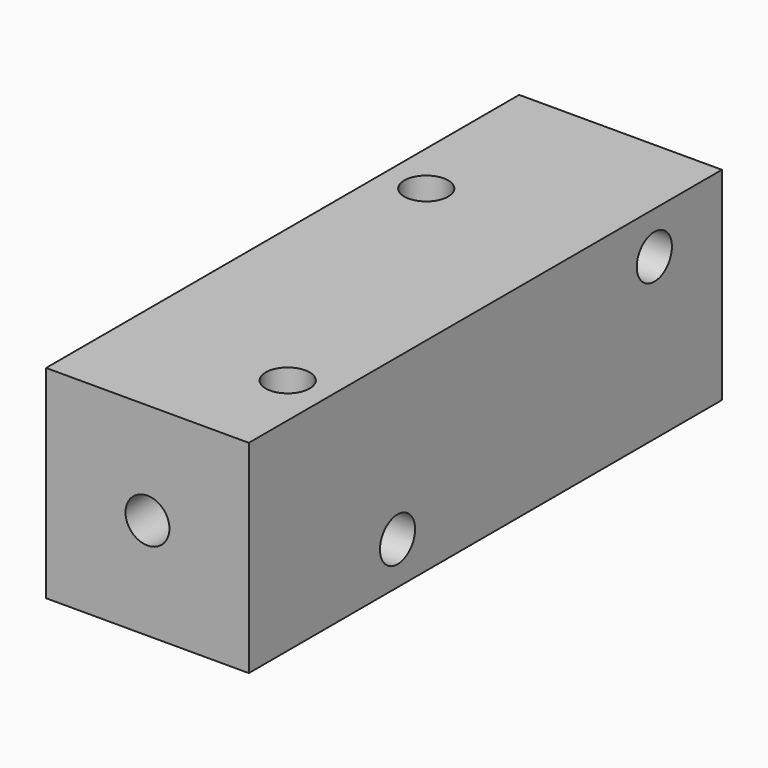
from build123d import *

# Parameters (mm, degrees)
CYLINDER024_R           = 1.3
CYLINDER024_DEPTH       = 40
CYLINDER024_PITCH_ANGLE = 90
CYLINDER023_R           = 1.3
CYLINDER023_DEPTH       = 40
CYLINDER023_PITCH_ANGLE = 90
CYLINDER022_R           = 1.3
CYLINDER022_DEPTH       = 70
CYLINDER022_ROLL_ANGLE  = 90
CYLINDER021_R           = 1.3
CYLINDER021_DEPTH       = 40
CYLINDER020_R           = 1.3
CYLINDER020_DEPTH       = 40
BOX017_W                = 12
BOX017_H                = 35
BOX017_DEPTH            = 12


with BuildPart() as cylinder105:
    # Cylinder024 → Cylinder024 (new body)
    with BuildSketch(Plane.XY):
        Circle(CYLINDER024_R)
    extrude(amount=CYLINDER024_DEPTH)


with BuildPart() as cylinder105_1:
    # Cylinder024 pitch: moved
    add(cylinder105.part.rotate(Axis((0, 0, 0), (0, 1, 0)), CYLINDER024_PITCH_ANGLE))


with BuildPart() as cylinder105_2:
    # Cylinder024 placement: moved
    add(cylinder105_1.part.moved(Location((-40, 12, 9.5))))


with BuildPart() as fusion007:
    # Cylinder023 → Cylinder023 (new body)
    with BuildSketch(Plane.XY):
        Circle(CYLINDER023_R)
    extrude(amount=CYLINDER023_DEPTH)


with BuildPart() as fusion007_1:
    # Cylinder023 pitch: moved
    add(fusion007.part.rotate(Axis((0, 0, 0), (0, 1, 0)), CYLINDER023_PITCH_ANGLE))


with BuildPart() as fusion007_2:
    # Cylinder023 placement: moved
    add(fusion007_1.part.moved(Location((-40, -7, 2.5))))

    # Fusion007: union Cylinder105
    add(cylinder105_2.part)


with BuildPart() as fusion008:
    # Cylinder022 → Cylinder022 (new body)
    with BuildSketch(Plane.XY):
        Circle(CYLINDER022_R)
    extrude(amount=CYLINDER022_DEPTH)


with BuildPart() as fusion008_1:
    # Cylinder022 roll: moved
    add(fusion008.part.rotate(Axis((0, 0, 0), (1, 0, 0)), CYLINDER022_ROLL_ANGLE))


with BuildPart() as fusion008_2:
    # Cylinder022 placement: moved
    add(fusion008_1.part.moved(Location((-24, 39, 6))))

    # Fusion008: union Fusion007
    add(fusion007_2.part)


with BuildPart() as fusion009:
    # Cylinder021 → Cylinder021 (new body)
    with BuildSketch(Plane(origin=(-27.5, 7, -15), x_dir=(1, 0, 0), z_dir=(0, 0, 1))):
        Circle(CYLINDER021_R)
    extrude(amount=CYLINDER021_DEPTH)

    # Fusion009: union Fusion008
    add(fusion008_2.part)


with BuildPart() as corner_block_holes:
    # Cylinder020 → Cylinder020 (new body)
    with BuildSketch(Plane(origin=(-20.5, -12, -15), x_dir=(1, 0, 0), z_dir=(0, 0, 1))):
        Circle(CYLINDER020_R)
    extrude(amount=CYLINDER020_DEPTH)

    # Fusion010: union Fusion009
    add(fusion009.part)


with BuildPart() as corner_block002:
    # Box017 → Box017 (new body)
    with BuildSketch(Plane(origin=(-30, -18, 0), x_dir=(1, 0, 0), z_dir=(0, 0, 1))):
        with Locations((6, 17.5)):
            Rectangle(BOX017_W, BOX017_H)
    extrude(amount=BOX017_DEPTH)

    # Cut010: cut corner-block-holes
    add(corner_block_holes.part, mode=Mode.SUBTRACT)


with BuildPart() as corner_block002_1:
    # Cut010 placement: moved
    add(corner_block002.part.moved(Location((0, 0, 132))))


solid = corner_block002_1.part
